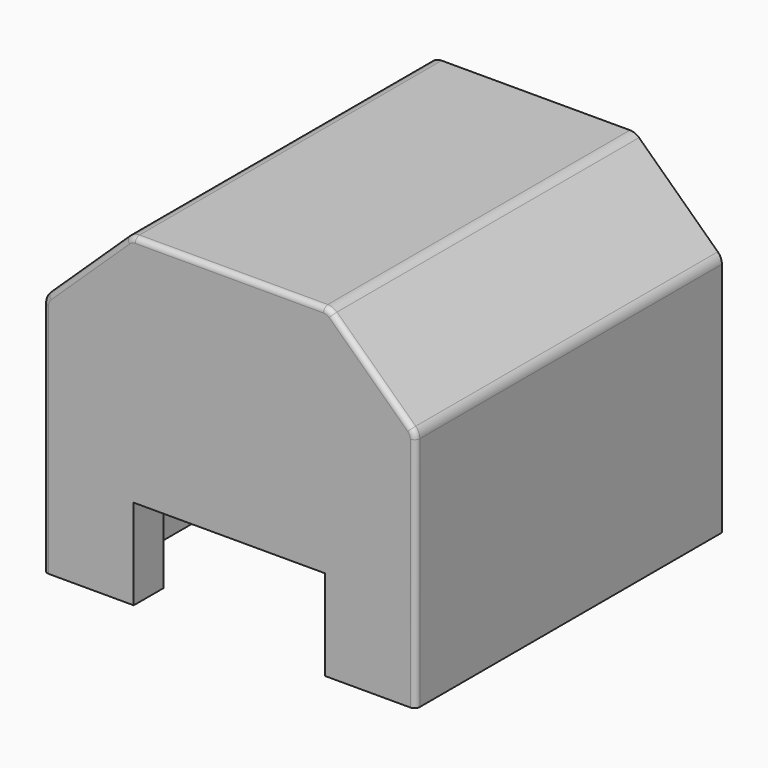
from build123d import *

# Parameters (mm, degrees)
F1_DEPTH = 7.2
F2_W     = 3.6
F2_H     = 2.4
F3_DEPTH = 7.201
F5_DEPTH = 6.5
F6_W     = 7
F6_H     = 0.7
F7_DEPTH = 7.201
F8_R     = 0.25
F9_R     = 0.1


with BuildPart() as f1:
    # F0 (on Front) → F1 (new body)
    with BuildSketch(Plane.XZ):
        Polygon((-3.5, 6.35), (-3.5, 1.1), (3.5, 1.1), (3.5, 6.35), (1.87, 7.9), (-1.87, 7.9), align=None)
    extrude(amount=F1_DEPTH)

    # F2 (on face) → F3 (cut, through all)
    with BuildSketch(Plane.XZ.offset(7.2)):
        with Locations((0, 2.3)):
            Rectangle(F2_W, F2_H)
    extrude(amount=-F3_DEPTH, mode=Mode.SUBTRACT)

    # F4 (on face) → F5 (cut)
    with BuildSketch(Plane(origin=(0, 0, 0), x_dir=(-1, 0, 0), z_dir=(0, 1, 0))):
        Polygon((-2.75, 1.1), (2.75, 1.1), (2.75, 6.028231), (1.570333, 7.15), (-1.570333, 7.15), (-2.75, 6.028231), align=None)
    extrude(amount=-F5_DEPTH, mode=Mode.SUBTRACT)

    # F6 (on face) → F7 (cut, through all)
    with BuildSketch(Plane.XZ.offset(7.2)):
        with Locations((0, 1.45)):
            Rectangle(F6_W, F6_H)
    extrude(amount=-F7_DEPTH, mode=Mode.SUBTRACT)

    # F8
    f8_edges = [f1.edges().sort_by_distance(p)[0] for p in [
        (-3.5, -3.6, 6.35),
        (-1.87, -3.6, 7.9),
        (1.87, -3.6, 7.9),
        (3.5, -3.6, 6.35),
    ]]
    fillet(f8_edges, radius=F8_R)

    # F9
    f9_edges = [f1.edges().sort_by_distance(p)[0] for p in [
        (-3.5, -7.2, 4.021372),
    ]]
    fillet(f9_edges, radius=F9_R)


solid = f1.part
